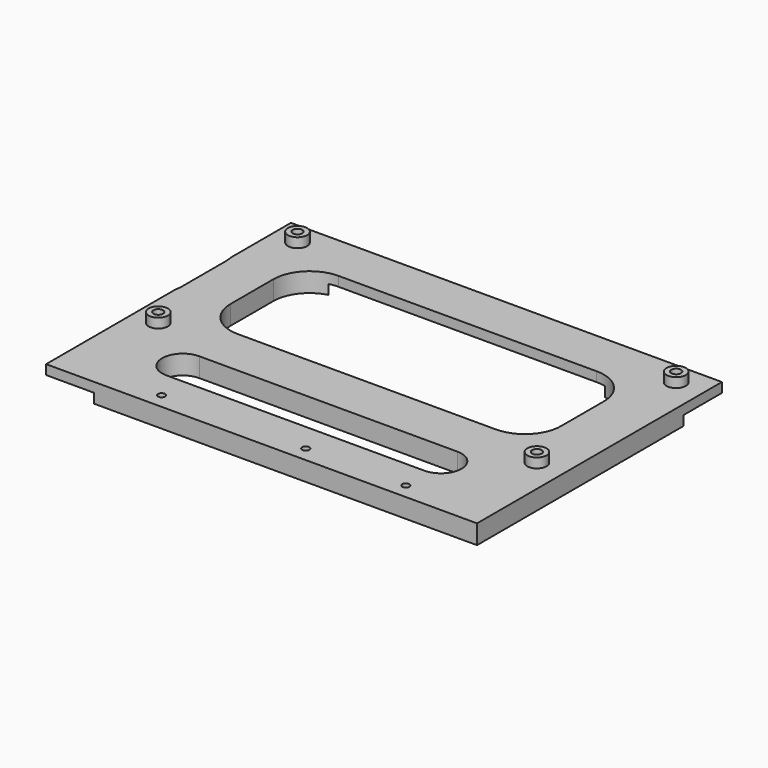
from build123d import *

# Parameters (mm, degrees)
F0_R      = 2
F1_DEPTH  = 8
F3_DEPTH  = 185
F5_DEPTH  = 5
F6_R      = 2.5
F7_DEPTH  = 5
F8_R      = 2.012254
F9_DEPTH  = 3
F10_R     = 4
F10_R_2   = 2
F11_DEPTH = 4
F13_DEPTH = 340
F15_DEPTH = 320
F16_R     = 1.5
F17_DEPTH = 25


with BuildPart() as f1:
    # F0 (on Top) → F1 (new body)
    with BuildSketch(Plane.XY):
        Polygon((248.954639, 211.431908), (-84.845372, 211.431908), (-84.845372, -69.567305), (248.954639, -69.567305), (248.954639, -32.408092), align=None)
        with Locations((-44.415361, -24.153092)):
            Circle(F0_R, mode=Mode.SUBTRACT)
        with BuildLine():
            Line((-54.415363, 33.177276), (-54.415363, -42.732489))
            ThreePointArc((-54.415363, -42.732489), (-60.347495, -48.664621), (-66.279627, -42.732489))
            Line((-66.279627, -42.732489), (-66.279627, 33.177276))
            ThreePointArc((-66.279627, 33.177276), (-60.347495, 39.109408), (-54.415363, 33.177276))
        make_face(mode=Mode.SUBTRACT)
        with BuildLine():
            Line((-19.355729, -34.152674), (54.985007, -34.152674))
            ThreePointArc((54.985007, -34.152674), (63.564824, -42.732488), (54.98501, -51.312305))
            Line((54.98501, -51.312305), (-19.355726, -51.312305))
            ThreePointArc((-19.355726, -51.312305), (-27.935546, -42.732491), (-19.355729, -34.152674))
        make_face(mode=Mode.SUBTRACT)
        with Locations((80.044639, -24.153092)):
            Circle(F0_R, mode=Mode.SUBTRACT)
        with Locations((-44.415361, 48.236908)):
            Circle(F0_R, mode=Mode.SUBTRACT)
        with BuildLine():
            ThreePointArc((-34.415361, 23.177276), (-30.004497, 33.826044), (-19.355729, 38.236908))
            Line((-19.355729, 38.236908), (54.985007, 38.236908))
            ThreePointArc((54.985007, 38.236908), (65.633775, 33.826044), (70.044639, 23.177276))
            Line((70.044639, 23.177276), (70.044639, 0.90654))
            ThreePointArc((70.044639, 0.90654), (65.633775, -9.742228), (54.985007, -14.153092))
            Line((54.985007, -14.153092), (-19.355729, -14.153092))
            ThreePointArc((-19.355729, -14.153092), (-30.004497, -9.742228), (-34.415361, 0.90654))
            Line((-34.415361, 0.90654), (-34.415361, 23.177276))
        make_face(mode=Mode.SUBTRACT)
        with Locations((80.044639, 48.236908)):
            Circle(F0_R, mode=Mode.SUBTRACT)
        with BuildLine():
            ThreePointArc((212.465007, -34.152674), (221.044824, -42.732488), (212.46501, -51.312305))
            Line((212.46501, -51.312305), (105.104274, -51.312305))
            ThreePointArc((105.104274, -51.312305), (96.524457, -42.732491), (105.104271, -34.152674))
            Line((105.104271, -34.152674), (212.465007, -34.152674))
        make_face(mode=Mode.SUBTRACT)
        with Locations((237.524639, -24.153092)):
            Circle(F0_R, mode=Mode.SUBTRACT)
        with BuildLine():
            Line((90.044639, 0.90654), (90.044639, 23.177276))
            ThreePointArc((90.044639, 23.177276), (94.455503, 33.826044), (105.104271, 38.236908))
            Line((105.104271, 38.236908), (212.465007, 38.236908))
            ThreePointArc((212.465007, 38.236908), (223.113775, 33.826044), (227.524639, 23.177276))
            Line((227.524639, 23.177276), (227.524639, 0.90654))
            ThreePointArc((227.524639, 0.90654), (223.113775, -9.742228), (212.465007, -14.153092))
            Line((212.465007, -14.153092), (105.104271, -14.153092))
            ThreePointArc((105.104271, -14.153092), (94.455503, -9.742228), (90.044639, 0.90654))
        make_face(mode=Mode.SUBTRACT)
        with Locations((237.524639, 48.236908)):
            Circle(F0_R, mode=Mode.SUBTRACT)
        with BuildLine():
            Line((-54.415363, 180.316908), (-54.415363, 63.29654))
            ThreePointArc((-54.415363, 63.29654), (-60.347495, 57.364408), (-66.279627, 63.29654))
            Line((-66.279627, 63.29654), (-66.279627, 180.316908))
            ThreePointArc((-66.279627, 180.316908), (-60.347495, 186.24904), (-54.415363, 180.316908))
        make_face(mode=Mode.SUBTRACT)
        with BuildLine():
            Line((-34.415361, 73.29654), (-34.415361, 178.117276))
            ThreePointArc((-34.415361, 178.117276), (-30.004497, 188.766044), (-19.355729, 193.176908))
            Line((-19.355729, 193.176908), (54.985007, 193.176908))
            ThreePointArc((54.985007, 193.176908), (65.633775, 188.766044), (70.044639, 178.117276))
            Line((70.044639, 178.117276), (70.044639, 73.29654))
            ThreePointArc((70.044639, 73.29654), (65.633775, 62.647772), (54.985007, 58.236908))
            Line((54.985007, 58.236908), (-19.355729, 58.236908))
            ThreePointArc((-19.355729, 58.236908), (-30.004497, 62.647772), (-34.415361, 73.29654))
        make_face(mode=Mode.SUBTRACT)
        with Locations((-44.415361, 203.176908)):
            Circle(F0_R, mode=Mode.SUBTRACT)
        with Locations((80.044639, 203.176908)):
            Circle(F0_R, mode=Mode.SUBTRACT)
        with BuildLine():
            ThreePointArc((227.524639, 73.29654), (223.113775, 62.647772), (212.465007, 58.236908))
            Line((212.465007, 58.236908), (105.104271, 58.236908))
            ThreePointArc((105.104271, 58.236908), (94.455503, 62.647772), (90.044639, 73.29654))
            Line((90.044639, 73.29654), (90.044639, 178.117276))
            ThreePointArc((90.044639, 178.117276), (94.455503, 188.766044), (105.104271, 193.176908))
            Line((105.104271, 193.176908), (212.465007, 193.176908))
            Line((212.465007, 193.176908), (212.465007, 170.316908))
            ThreePointArc((212.465007, 170.316908), (223.113775, 165.906044), (227.524639, 155.257276))
            Line((227.524639, 155.257276), (227.524639, 73.29654))
        make_face(mode=Mode.SUBTRACT)
        with Locations((237.524639, 180.316908)):
            Circle(F0_R, mode=Mode.SUBTRACT)
    extrude(amount=F1_DEPTH)

    # F2 (on face) → F3 (join)
    with BuildSketch(Plane.XY.offset(8)):
        Polygon((15.154628, 211.431908), (-84.845372, 211.431908), (-84.845372, 71.431908), (-81.845372, 71.431908), (-81.845372, 208.431908), (15.154628, 208.431908), align=None)
    extrude(amount=F3_DEPTH)

    # F4 (on face) → F5 (cut)
    with BuildSketch(Plane(origin=(-84.845372, 0, 0), x_dir=(0, -1, 0), z_dir=(-1, 0, 0))):
        Polygon((-169.016169, 40), (-201.431908, 143.553324), (-201.431908, 40), align=None)
        Polygon((-71.431908, 193), (-206.431908, 193), (-158.537665, 40), (-71.431908, 40), align=None)
    extrude(amount=-F5_DEPTH, mode=Mode.SUBTRACT)

    # F6 (on face) → F7 (cut)
    with BuildSketch(Plane(origin=(0, 211.431908, 0), x_dir=(-1, 0, 0), z_dir=(0, 1, 0))):
        Polygon((12.845372, 83.034229), (12.845372, 55.132884), (75.345372, 55.132884), (75.345372, 148.132884), (67.845372, 148.132884), (67.845372, 178.132884), (2.845372, 178.132884), (1.345372, 83.215967), align=None)
        with Locations((11.345372, 185.632884)):
            Circle(F6_R)
        with Locations((1.345372, 185.632884)):
            Circle(F6_R)
        with Locations((75.345372, 161.632884)):
            Circle(F6_R)
        with Locations((75.345372, 185.632884)):
            Circle(F6_R)
        with Locations((75.345372, 47.632884)):
            Circle(F6_R)
        with Locations((65.345372, 47.632884)):
            Circle(F6_R)
        with Locations((1.345372, 47.632884)):
            Circle(F6_R)
        with Locations((1.345372, 71.632884)):
            Circle(F6_R)
    extrude(amount=-F7_DEPTH, mode=Mode.SUBTRACT)

    # F8 (on face) → F9 (join)
    with BuildSketch(Plane.XY.offset(40)):
        Polygon((14.154628, 208.488166), (-81.845372, 208.488166), (-81.845372, 201.431908), (-81.845372, 169.016169), (-81.845372, 71.523808), align=None)
        Polygon((-71.845372, 103.213636), (-71.845372, 198.488166), (-5.066284, 198.488166), align=None, mode=Mode.SUBTRACT)
        with Locations((-44.408604, 203.142822)):
            Circle(F8_R, mode=Mode.SUBTRACT)
    extrude(amount=-F9_DEPTH)

    # F10 (on face) → F11 (join)
    with BuildSketch(Plane.XY.offset(8)):
        with Locations((237.524639, 48.236908)):
            Circle(F10_R)
        with Locations((237.524639, 48.236908)):
            Circle(F10_R_2, mode=Mode.SUBTRACT)
        with Locations((237.524639, -24.153092)):
            Circle(F10_R)
        with Locations((237.524639, -24.153092)):
            Circle(F10_R_2, mode=Mode.SUBTRACT)
        with Locations((80.044639, 48.236908)):
            Circle(F10_R)
        with Locations((80.044639, 48.236908)):
            Circle(F10_R_2, mode=Mode.SUBTRACT)
        with Locations((80.044639, -24.153092)):
            Circle(F10_R)
        with Locations((80.044639, -24.153092)):
            Circle(F10_R_2, mode=Mode.SUBTRACT)
    extrude(amount=F11_DEPTH)

    # F12 (on face) → F13 (cut)
    with BuildSketch(Plane.YZ.offset(248.954639)):
        Polygon((57.743425, 4), (37.743425, 4), (37.743425, 0), (211.431908, 0), (211.431908, 8), (57.743425, 8), align=None)
    extrude(amount=-F13_DEPTH, mode=Mode.SUBTRACT)

    # F14 (on face) → F15 (cut)
    with BuildSketch(Plane(origin=(0, 211.431908, 0), x_dir=(-1, 0, 0), z_dir=(0, 1, 0))):
        Polygon((-69.711687, 8), (-69.711687, 4), (-89.711687, 4), (-89.711687, 0), (-20.75227, 0), (93.97424, 0), (93.97424, 17.639369), (93.97424, 194.899216), (-20.75227, 194.899216), (-20.75227, 10.883192), align=None)
        Polygon((-69.711687, 8), (-69.711687, 4), (-89.711687, 4), (-89.711687, 0), (-20.75227, 0), (93.97424, 0), (93.97424, 17.639369), (93.97424, 194.899216), (-20.75227, 194.899216), (-20.75227, 10.883192), align=None)
    extrude(amount=-F15_DEPTH, mode=Mode.SUBTRACT)

    # F16 (on face) → F17 (cut)
    with BuildSketch(Plane.XY.offset(8)):
        with Locations((214.26287, -63.217305)):
            Circle(F16_R)
        with Locations((112.66287, -63.217305)):
            Circle(F16_R)
        with Locations((172.65287, -63.217305)):
            Circle(F16_R)
    extrude(amount=-F17_DEPTH, mode=Mode.SUBTRACT)


solid = f1.part
